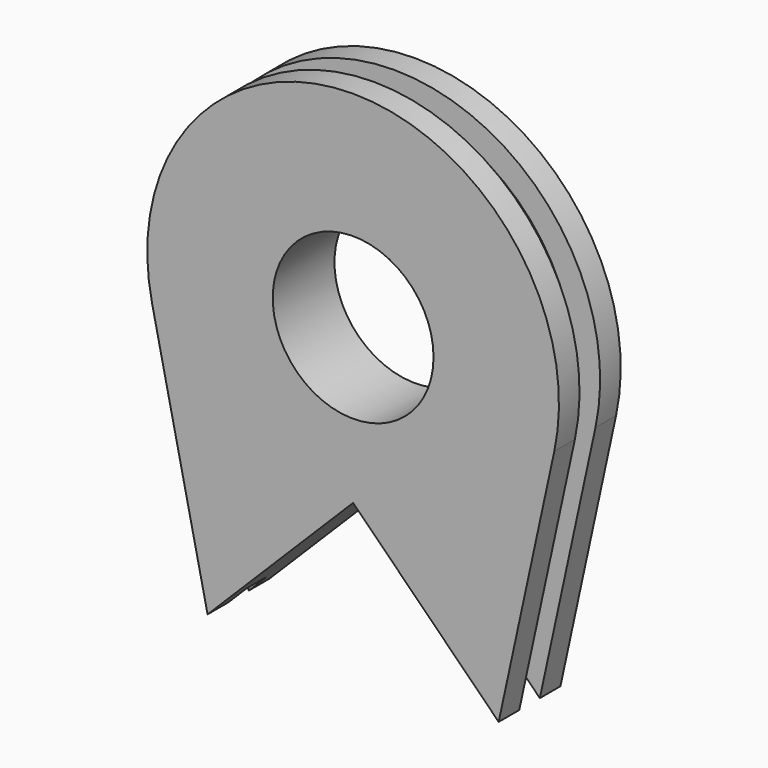
from build123d import *

# Parameters (mm, degrees)
SKETCH_R            = 19.84375
PAD_DEPTH           = 6.35
SKETCH001_R         = 19.84375
PAD001_DEPTH        = 6.35
LINEARPATTERN_COUNT = 2
LINEARPATTERN_PITCH = 12.7


with BuildPart() as part:
    # Sketch → Pad (new body)
    with BuildSketch(Plane.XZ):
        with BuildLine():
            ThreePointArc((49.644797, 27.328087), (0, 88.9), (-49.644797, 27.328087))
            Line((-49.644797, 27.328087), (-35.921024, -35.921024))
            Line((-35.921024, -35.921024), (0, 0))
            Line((0, 0), (35.921024, -35.921024))
            Line((35.921024, -35.921024), (49.644797, 27.328087))
        make_face()
        with Locations((0, 38.1)):
            Circle(SKETCH_R, mode=Mode.SUBTRACT)
    pad = extrude(amount=PAD_DEPTH)

    # Sketch001 (on DatumPlane) → Pad001 (join)
    with BuildSketch(Plane.XZ.offset(6.35)):
        with BuildLine():
            ThreePointArc((43.587747, 29.387319), (0, 82.55), (-43.587747, 29.387319))
            Line((-43.587747, 29.387319), (-31.430896, -31.430896))
            Line((-31.430896, -31.430896), (0, 0))
            Line((0, 0), (31.430896, -31.430896))
            Line((31.430896, -31.430896), (43.587747, 29.387319))
        make_face()
        with Locations((0, 38.1)):
            Circle(SKETCH001_R, mode=Mode.SUBTRACT)
    extrude(amount=PAD001_DEPTH)

    # LinearPattern: Pad ×2
    with Locations(*[(0, -i * LINEARPATTERN_PITCH, 0) for i in range(1, LINEARPATTERN_COUNT)]):
        add(pad)


solid = part.part
